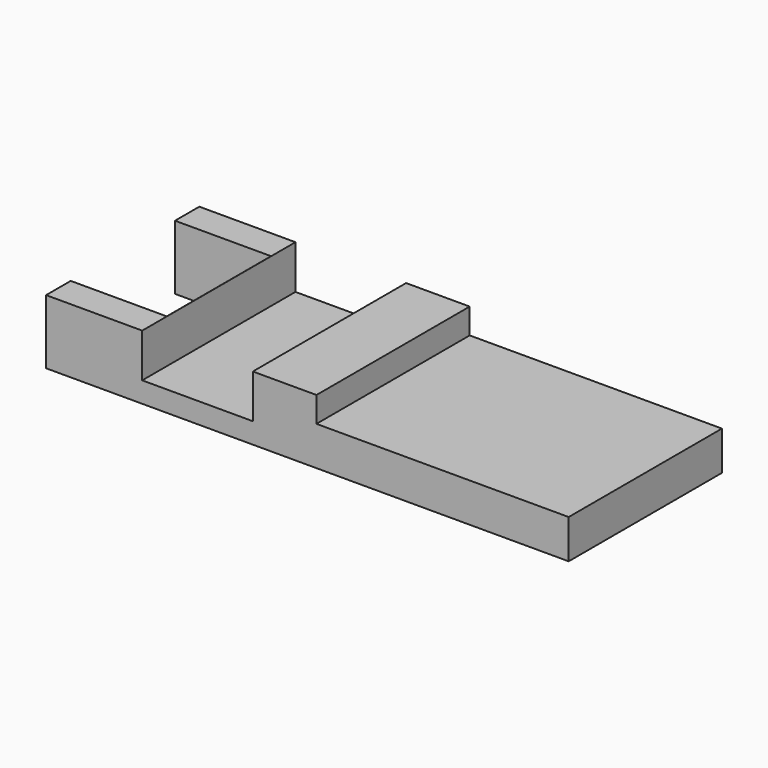
from build123d import *

# Parameters (mm, degrees)
F1_DEPTH = 25.4
F2_W     = 16.138606
F2_H     = 17.284541
F3_DEPTH = 8.543421


with BuildPart() as f1:
    # F0 (on Front) → F1 (new body)
    with BuildSketch(Plane.XZ):
        Polygon((-36.821757, 8.542421), (-49.570106, 8.542421), (-49.570106, 0), (19.731788, 0), (19.731788, 5.173579), (-13.715999, 5.173579), (-13.715999, 8.542421), (-22.151655, 8.542421), (-22.151655, 2.737268), (-36.821757, 2.737268), align=None)
    extrude(amount=F1_DEPTH)

    # F2 (on Top) → F3 (cut, through all)
    with BuildSketch(Plane.XY):
        with Locations((-44.908296, -12.673702)):
            Rectangle(F2_W, F2_H)
    extrude(amount=F3_DEPTH, mode=Mode.SUBTRACT)


solid = f1.part
